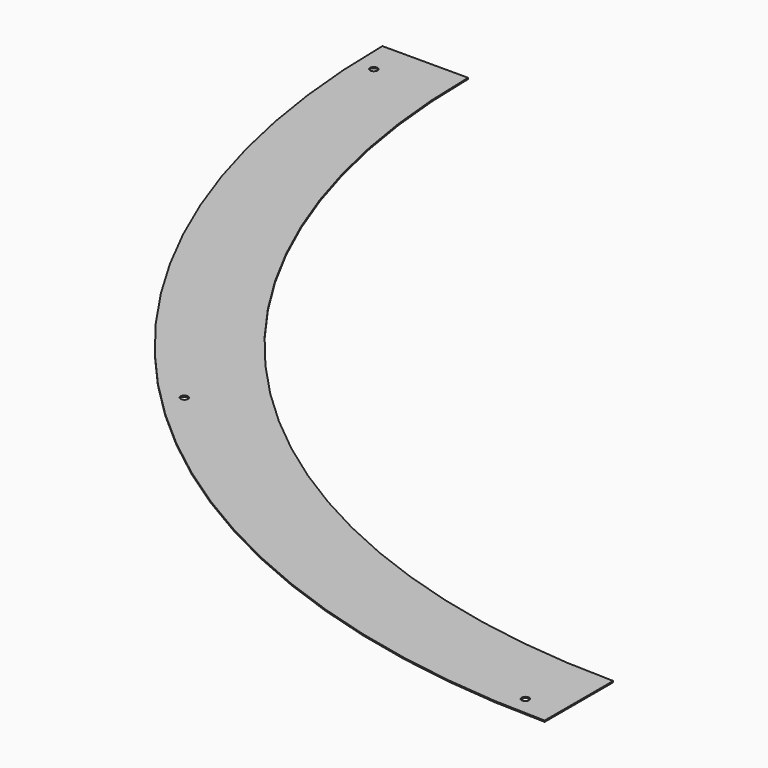
from build123d import *

# Parameters (mm, degrees)
F2_DEPTH = 1
F3_R     = 3
F4_DEPTH = 1.001


with BuildPart() as f2:
    # F0 (on Top) → F2 (new body)
    with BuildSketch(Plane.XY):
        with BuildLine():
            ThreePointArc((0, -592.5), (-418.960768, -418.960768), (-592.5, 0))
            Line((-592.5, 0), (-662.5, 0))
            ThreePointArc((-662.5, 0), (-468.458243, -468.458243), (0, -662.5))
            Line((0, -662.5), (0, -592.5))
        make_face()
    extrude(amount=-F2_DEPTH)

    # F3 (on face) → F4 (cut, through all)
    with BuildSketch(Plane.XY):
        with Locations((-646.883723, -28.243553)):
            Circle(F3_R)
        with Locations((-28.243553, -646.883723)):
            Circle(F3_R)
        with Locations((-457.851641, -457.851641)):
            Circle(F3_R)
    extrude(amount=-F4_DEPTH, mode=Mode.SUBTRACT)


solid = f2.part
